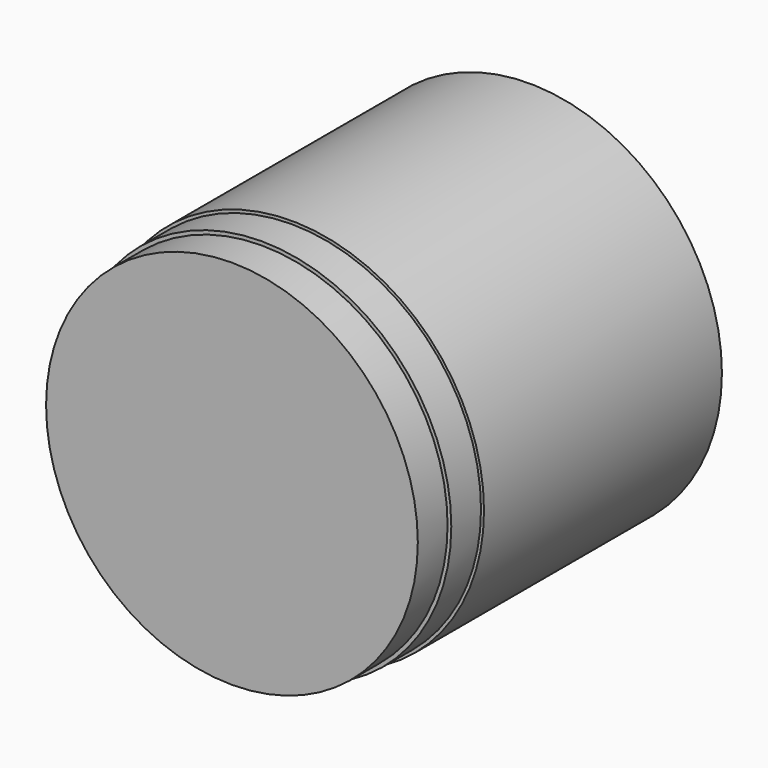
from build123d import *

# Parameters (mm, degrees)
F0_R     = 12.7
F1_DEPTH = 25.4
F2_R     = 12.954
F3_DEPTH = 22.86
F4_R     = 13.1572
F5_DEPTH = 20.32


with BuildPart() as f1:
    # F0 (on Front) → F1 (new body)
    with BuildSketch(Plane.XZ):
        Circle(F0_R)
    extrude(amount=F1_DEPTH)

    # F2 (on Front) → F3 (join)
    with BuildSketch(Plane.XZ):
        Circle(F2_R)
    extrude(amount=F3_DEPTH)

    # F4 (on Front) → F5 (join)
    with BuildSketch(Plane.XZ):
        Circle(F4_R)
    extrude(amount=F5_DEPTH)


solid = f1.part
